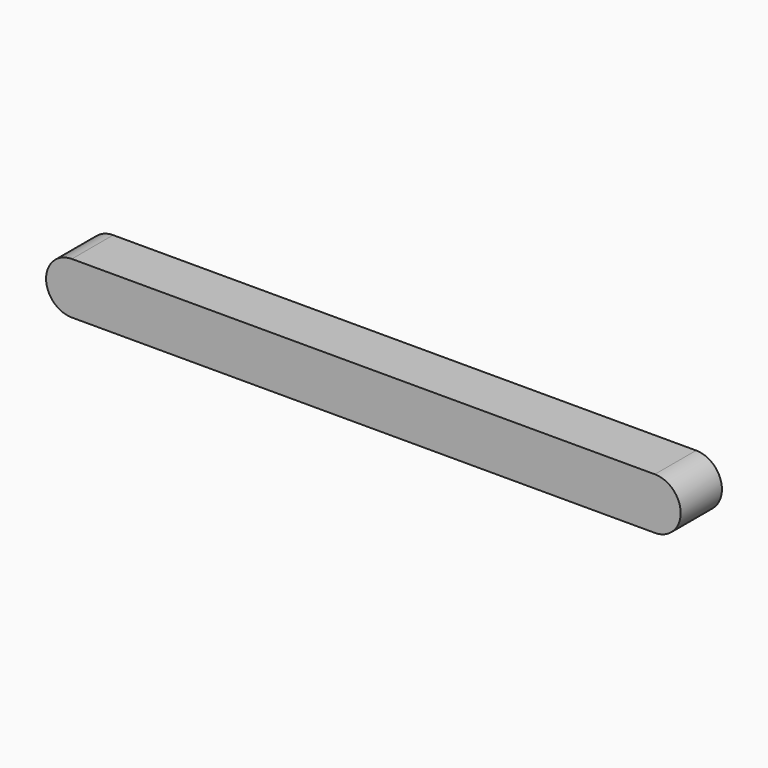
from build123d import *

# Parameters (mm, degrees)
F0_W     = 67.8
F0_H     = 6
F1_DEPTH = 6


with BuildPart() as f1:
    # F0 (on Front) → F1 (new body)
    with BuildSketch(Plane.XZ):
        with Locations((33.9, 3)):
            Rectangle(F0_W, F0_H)
        with BuildLine():
            Line((67.8, 6), (67.8, 0))
            ThreePointArc((67.8, 0), (70.8, 3), (67.8, 6))
        make_face()
        with BuildLine():
            ThreePointArc((0, 6), (-3, 3), (0, 0))
            Line((0, 0), (0, 6))
        make_face()
    extrude(amount=F1_DEPTH)


solid = f1.part
